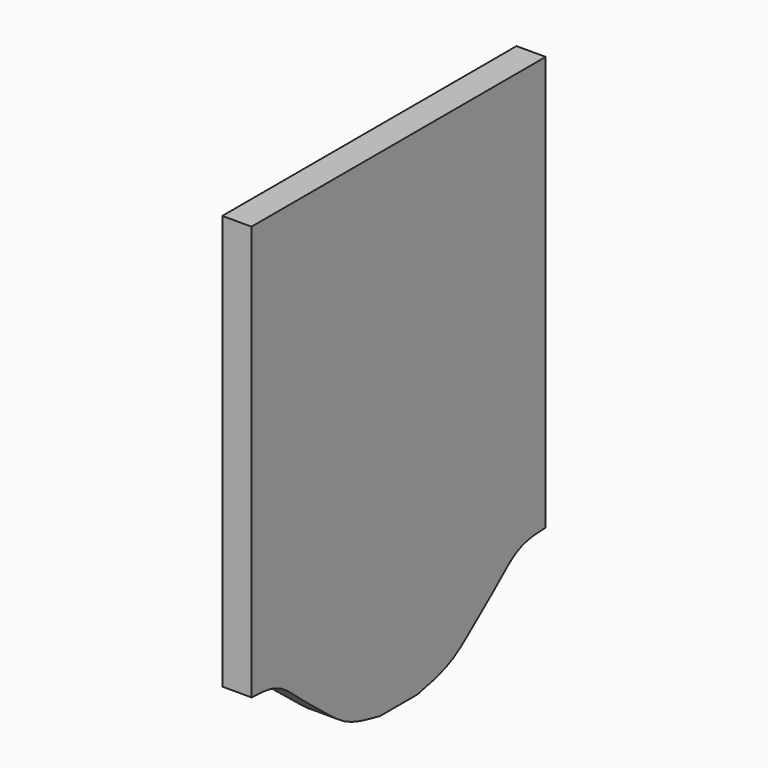
from build123d import *

# Parameters (mm, degrees)
F1_DEPTH = 10


with BuildPart() as f1:
    # F0 (on Right) → F1 (new body)
    with BuildSketch(Plane.YZ):
        with BuildLine():
            Line((-71, 0), (-55, 0))
            add(Edge.make_bspline(
                [(0, 28), (-3.1688660139, 27.8648015698), (-9.0651615813, 27.6132384234), (-15.2750462094, 24.1510177159), (-21.0166109873, 18.7600341695), (-31.2463911728, 10.9614263997), (-40.5246248952, 2.990704024), (-50.0352230272, 1.0257543147), (-55, 0)],
                knots=[0, 0, 0, 0, 0.1560629096, 0.2903855947, 0.4353224036, 0.6209135261, 0.8021071051, 1, 1, 1, 1], degree=3))
            Line((0, 28), (0, 170))
            Line((0, 170), (-126, 170))
            Line((-126, 170), (-126, 28))
            add(Edge.make_bspline(
                [(-126, 28), (-122.8311339861, 27.8648015698), (-116.9348384187, 27.6132384234), (-110.7249537906, 24.1510177159), (-104.9833890127, 18.7600341695), (-94.7536088272, 10.9614263997), (-85.4753751048, 2.990704024), (-75.9647769728, 1.0257543147), (-71, 0)],
                knots=[0, 0, 0, 0, 0.1560629096, 0.2903855947, 0.4353224036, 0.6209135261, 0.8021071051, 1, 1, 1, 1], degree=3))
        make_face()
    extrude(amount=F1_DEPTH)


solid = f1.part
